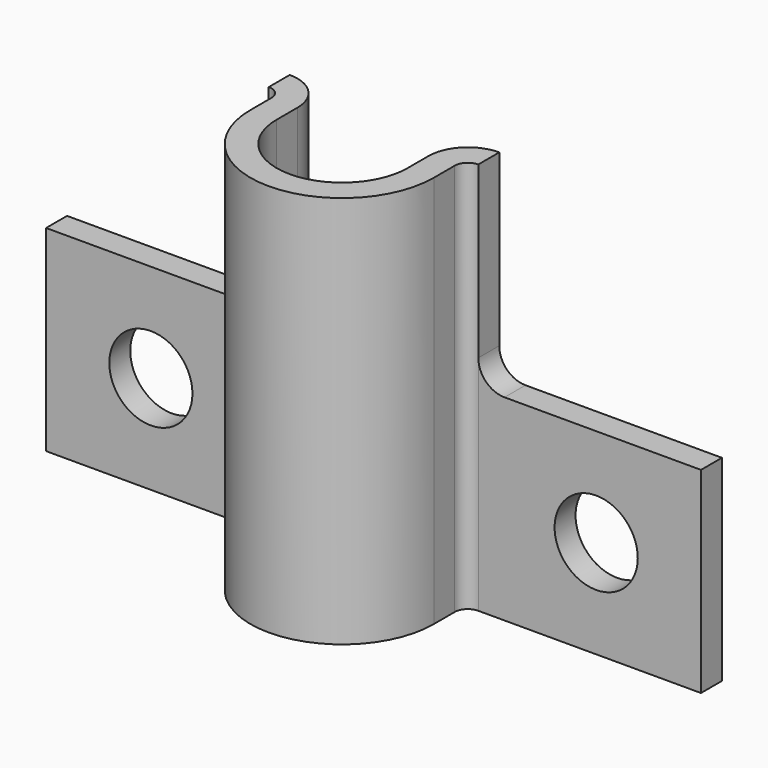
from build123d import *

# Parameters (mm, degrees)
F1_DEPTH = 15
F3_DEPTH = 15
F4_R     = 2
F6_D     = 6.35


with BuildPart() as f1:
    # F0 (on Top) → F1 (new body)
    with BuildSketch(Plane.XY):
        with BuildLine():
            Line((-8, 0), (-25, 0))
            Line((-25, 0), (-25, -2))
            Line((-25, -2), (-8, -2))
            ThreePointArc((-8, -2), (-7.292893, -2.292893), (-7, -3))
            Line((-7, -3), (-7, -5))
            ThreePointArc((-7, -5), (0, -12), (7, -5))
            Line((7, -5), (7, -3))
            ThreePointArc((7, -3), (7.292893, -2.292893), (8, -2))
            Line((8, -2), (25, -2))
            Line((25, -2), (25, 0))
            Line((25, 0), (8, 0))
            ThreePointArc((8, 0), (5.87868, -0.87868), (5, -3))
            Line((5, -3), (5, -5))
            ThreePointArc((5, -5), (0, -10), (-5, -5))
            Line((-5, -5), (-5, -3))
            ThreePointArc((-5, -3), (-5.87868, -0.87868), (-8, 0))
        make_face()
    extrude(amount=F1_DEPTH)

    # F2 (on face) → F3 (join)
    with BuildSketch(Plane.XY.offset(15)):
        with BuildLine():
            Line((-5, -5), (-5, -3))
            ThreePointArc((-5, -3), (-5.87868, -0.87868), (-8, 0))
            Line((-8, 0), (-8, -2))
            ThreePointArc((-8, -2), (-7.292893, -2.292893), (-7, -3))
            Line((-7, -3), (-7, -5))
            ThreePointArc((-7, -5), (0, -12), (7, -5))
            Line((7, -5), (7, -3))
            ThreePointArc((7, -3), (7.292893, -2.292893), (8, -2))
            Line((8, -2), (8, 0))
            ThreePointArc((8, 0), (5.87868, -0.87868), (5, -3))
            Line((5, -3), (5, -5))
            ThreePointArc((5, -5), (0, -10), (-5, -5))
        make_face()
    extrude(amount=F3_DEPTH)

    # F4
    f4_edges = [f1.edges().sort_by_distance(p)[0] for p in [
        (-8, -1, 15),
        (8, -1, 15),
    ]]
    fillet(f4_edges, radius=F4_R)

    # F6 (through all)
    with Locations(Plane(origin=(0, 0, 0), x_dir=(-1, 0, 0), z_dir=(0, 1, 0))):
        with Locations((-17, 7.5), (17, 7.5)):
            Hole(F6_D / 2)


solid = f1.part
